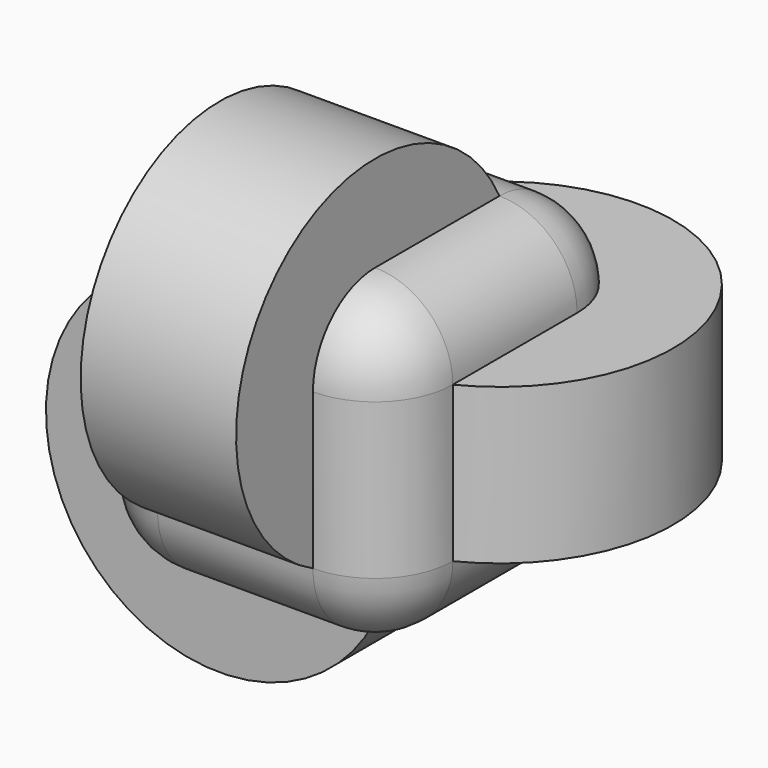
from build123d import *

# Parameters (mm, degrees)
F0_W       = 101.6
F0_H       = 101.6
F1_DEPTH   = 101.6
F2_R       = 25.4
F1_FACE_W  = 50.8
F1_FACE_H  = 50.8
F1_FACE1_W = 50.8
F1_FACE1_H = 50.8
F1_FACE2_W = 50.8
F1_FACE2_H = 50.8


with BuildPart() as f1:
    # F0 (on Top) → F1 (new body)
    with BuildSketch(Plane.XY):
        Rectangle(F0_W, F0_H)
    extrude(amount=F1_DEPTH)

    # F2
    f2_edges = [f1.edges().sort_by_distance(p)[0] for p in [
        (50.8, 0, 101.6),
        (0, -50.8, 101.6),
        (-50.8, 0, 101.6),
        (0, 50.8, 101.6),
        (50.8, 50.8, 50.8),
        (50.8, -50.8, 50.8),
        (-50.8, -50.8, 50.8),
        (0, -50.8, 0),
        (50.8, 0, 0),
        (0, 50.8, 0),
        (-50.8, 50.8, 50.8),
        (-50.8, 0, 0),
    ]]
    fillet(f2_edges, radius=F2_R)

    # F1_face (on face) → F3 (revolve)
    with BuildSketch(Plane.XY.offset(101.6)):
        Rectangle(F1_FACE_W, F1_FACE_H)
    revolve(axis=Axis((-50.8, -25.4, 76.2), (1, 0, 0)))

    # F1_face1 (on face) → F4 (revolve)
    with BuildSketch(Plane(origin=(0, 50.8, 50.8), x_dir=(-1, 0, 0), z_dir=(0, 1, 0))):
        Rectangle(F1_FACE1_W, F1_FACE1_H)
    revolve(axis=Axis((25.4, 25.4, 0), (0, 0, 1)))

    # F1_face2 (on face) → F5 (revolve)
    with BuildSketch(Plane(origin=(-50.8, 0, 50.8), x_dir=(0, -1, 0), z_dir=(-1, 0, 0))):
        Rectangle(F1_FACE2_W, F1_FACE2_H)
    revolve(axis=Axis((-25.4, 50.8, 25.4), (0, -1, 0)))


solid = f1.part
